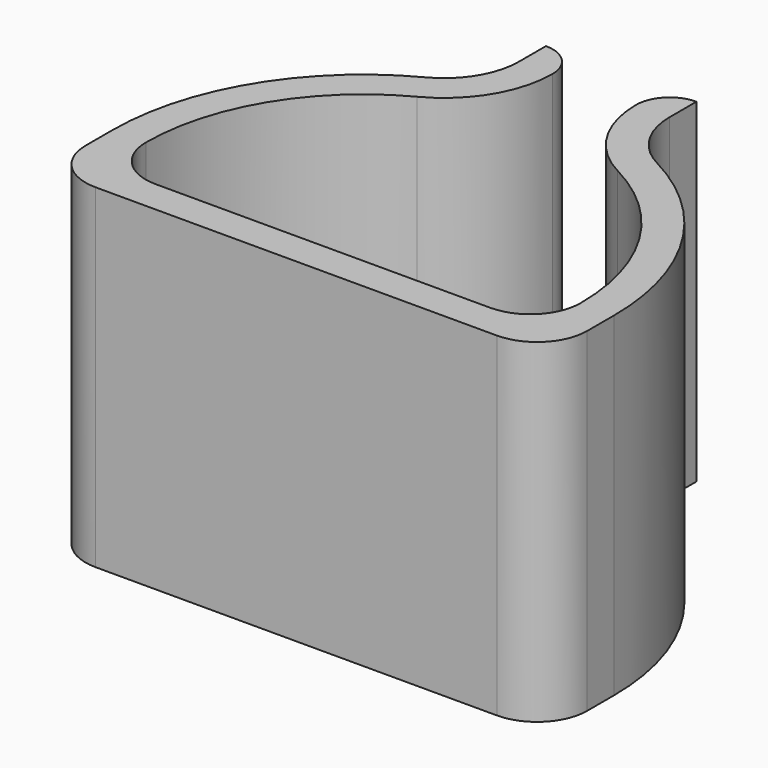
from build123d import *

# Parameters (mm, degrees)
PAD_DEPTH    = 20
SKETCH001_W  = 5
SKETCH001_H  = 2
POCKET_DEPTH = 20.001
FILLET_R     = 1.9999


with BuildPart() as part:
    # Sketch → Pad (new body)
    with BuildSketch(Plane.XY):
        with BuildLine():
            Line((15, 0), (15, -2))
            ThreePointArc((12, -5), (14.12132, -4.12132), (15, -2))
            Line((12, -5), (-12, -5))
            ThreePointArc((-15, -2), (-14.12132, -4.12132), (-12, -5))
            Line((-15, -2), (-15, 0))
            ThreePointArc((-6.917175, 13.309872), (-12.82103, 7.785961), (-15, 0))
            ThreePointArc((-6.917175, 13.309872), (-5.151623, 14.961802), (-4.5, 17.290199))
            Line((-4.5, 17.290199), (-4.5, 19.290199))
            Line((-4.5, 19.290199), (4.5, 19.290199))
            Line((4.5, 19.290199), (4.5, 17.290199))
            ThreePointArc((4.5, 17.290199), (5.151623, 14.961802), (6.917175, 13.309872))
            ThreePointArc((15, 0), (12.82103, 7.785961), (6.917175, 13.309872))
        make_face()
        with BuildLine():
            Line((-10, -3), (10, -3))
            ThreePointArc((10, -3), (12.12132, -2.12132), (13, 0))
            ThreePointArc((13, 0), (11.111559, 6.747833), (5.994885, 11.535222))
            ThreePointArc((2.5, 17.290199), (3.442152, 13.923674), (5.994885, 11.535222))
            Line((-2.5, 17.290199), (2.5, 17.290199))
            ThreePointArc((-5.994885, 11.535222), (-3.442152, 13.923674), (-2.5, 17.290199))
            ThreePointArc((-5.994885, 11.535222), (-11.111559, 6.747833), (-13, 0))
            ThreePointArc((-13, 0), (-12.12132, -2.12132), (-10, -3))
        make_face(mode=Mode.SUBTRACT)
    extrude(amount=PAD_DEPTH)

    # Sketch001 (on Face22 of Pad) → Pocket (cut, through all)
    with BuildSketch(Plane.XY.offset(20)):
        with Locations((0, 18.290199)):
            Rectangle(SKETCH001_W, SKETCH001_H)
    extrude(amount=-POCKET_DEPTH, mode=Mode.SUBTRACT)

    # Fillet
    fillet_edges = [part.edges().sort_by_distance(p)[0] for p in [
        (-2.5, 19.290199, 10),
        (2.5, 19.290199, 10),
    ]]
    fillet(fillet_edges, radius=FILLET_R)


solid = part.part
